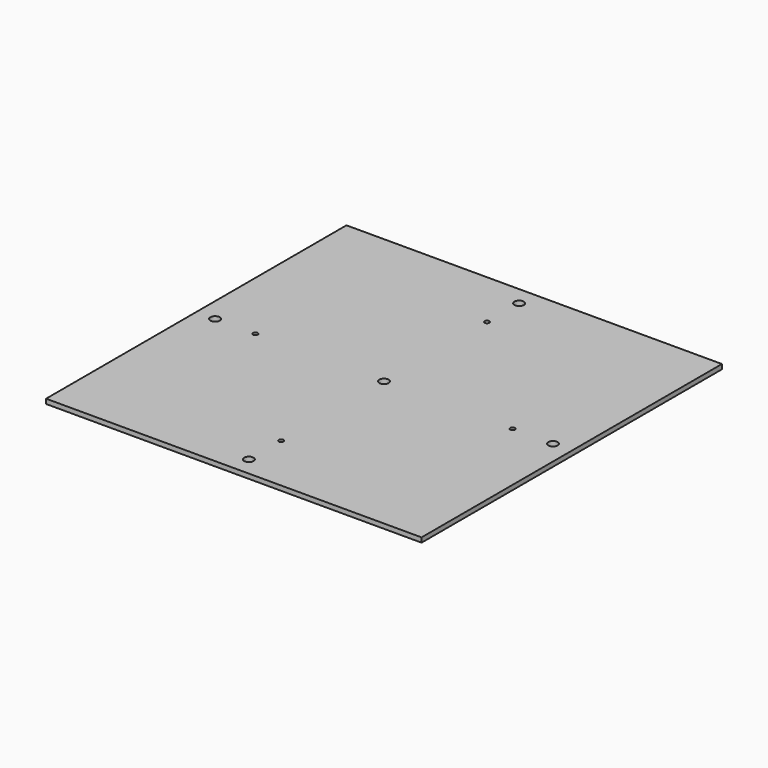
from build123d import *

# Parameters (mm, degrees)
F0_W     = 400
F0_H     = 400
F0_R     = 5
F0_R_2   = 2.5
F1_DEPTH = 5


with BuildPart() as f1:
    # F0 (on Top) → F1 (new body)
    with BuildSketch(Plane.XY):
        Rectangle(F0_W, F0_H)
        with Locations((0, -180)):
            Circle(F0_R, mode=Mode.SUBTRACT)
        with Locations((0, -137)):
            Circle(F0_R_2, mode=Mode.SUBTRACT)
        with Locations((-180, 0)):
            Circle(F0_R, mode=Mode.SUBTRACT)
        with Locations((-137, 0)):
            Circle(F0_R_2, mode=Mode.SUBTRACT)
        Circle(F0_R, mode=Mode.SUBTRACT)
        with Locations((137, 0)):
            Circle(F0_R_2, mode=Mode.SUBTRACT)
        with Locations((180, 0)):
            Circle(F0_R, mode=Mode.SUBTRACT)
        with Locations((0, 137)):
            Circle(F0_R_2, mode=Mode.SUBTRACT)
        with Locations((0, 180)):
            Circle(F0_R, mode=Mode.SUBTRACT)
    extrude(amount=F1_DEPTH)


solid = f1.part
